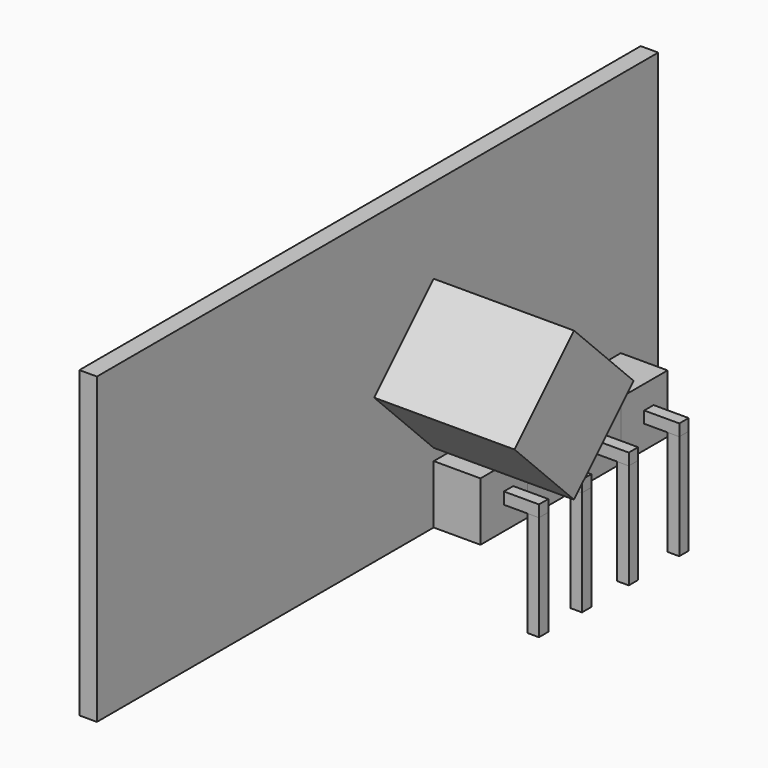
from build123d import *

# Parameters (mm, degrees)
BOX_W             = 0.75
BOX_H             = 30
BOX_DEPTH         = 13
BOX001_W          = 2
BOX001_H          = 2.5
BOX001_DEPTH      = 2.5
BOX002_W          = 2
BOX002_H          = 2.5
BOX002_DEPTH      = 2.5
BOX003_W          = 2
BOX003_H          = 2.5
BOX003_DEPTH      = 2.5
BOX004_W          = 1.5
BOX004_H          = 0.5
BOX004_DEPTH      = 0.5
BOX005_W          = 0.5
BOX005_H          = 0.5
BOX005_DEPTH      = 4.5
BOX006_W          = 1.5
BOX006_H          = 0.5
BOX006_DEPTH      = 0.5
BOX007_W          = 0.5
BOX007_H          = 0.5
BOX007_DEPTH      = 4.5
BOX008_W          = 1.5
BOX008_H          = 0.5
BOX008_DEPTH      = 0.5
BOX009_W          = 0.5
BOX009_H          = 0.5
BOX009_DEPTH      = 4.5
BOX010_W          = 2
BOX010_H          = 2.5
BOX010_DEPTH      = 2.5
BOX011_W          = 1.5
BOX011_H          = 0.5
BOX011_DEPTH      = 0.5
BOX012_W          = 0.5
BOX012_H          = 0.5
BOX012_DEPTH      = 4.5
BOX013_W          = 6
BOX013_H          = 4.5
BOX013_DEPTH      = 4.5
BOX013_ROLL_ANGLE = 45


with BuildPart() as cube:
    # Box → Box (new body)
    with BuildSketch(Plane(origin=(0.25, -12, 0), x_dir=(1, 0, 0), z_dir=(0, 0, 1))):
        with Locations((0.375, 15)):
            Rectangle(BOX_W, BOX_H)
    extrude(amount=BOX_DEPTH)


with BuildPart() as cube001:
    # Box001 → Box001 (new body)
    with BuildSketch(Plane(origin=(1, 6, 0), x_dir=(1, 0, 0), z_dir=(0, 0, 1))):
        with Locations((1, 1.25)):
            Rectangle(BOX001_W, BOX001_H)
    extrude(amount=BOX001_DEPTH)


with BuildPart() as cube002:
    # Box002 → Box002 (new body)
    with BuildSketch(Plane(origin=(1, 8.5, 0), x_dir=(1, 0, 0), z_dir=(0, 0, 1))):
        with Locations((1, 1.25)):
            Rectangle(BOX002_W, BOX002_H)
    extrude(amount=BOX002_DEPTH)


with BuildPart() as cube003:
    # Box003 → Box003 (new body)
    with BuildSketch(Plane(origin=(1, 11, 0), x_dir=(1, 0, 0), z_dir=(0, 0, 1))):
        with Locations((1, 1.25)):
            Rectangle(BOX003_W, BOX003_H)
    extrude(amount=BOX003_DEPTH)


with BuildPart() as cube004:
    # Box004 → Box004 (new body)
    with BuildSketch(Plane(origin=(3, 7.25, 1), x_dir=(1, 0, 0), z_dir=(0, 0, 1))):
        with Locations((0.75, 0.25)):
            Rectangle(BOX004_W, BOX004_H)
    extrude(amount=BOX004_DEPTH)


with BuildPart() as cube005:
    # Box005 → Box005 (new body)
    with BuildSketch(Plane(origin=(4, 7.25, -3.5), x_dir=(1, 0, 0), z_dir=(0, 0, 1))):
        with Locations((0.25, 0.25)):
            Rectangle(BOX005_W, BOX005_H)
    extrude(amount=BOX005_DEPTH)


with BuildPart() as cube006:
    # Box006 → Box006 (new body)
    with BuildSketch(Plane(origin=(3, 9.55, 1), x_dir=(1, 0, 0), z_dir=(0, 0, 1))):
        with Locations((0.75, 0.25)):
            Rectangle(BOX006_W, BOX006_H)
    extrude(amount=BOX006_DEPTH)


with BuildPart() as cube007:
    # Box007 → Box007 (new body)
    with BuildSketch(Plane(origin=(4, 9.55, -3.5), x_dir=(1, 0, 0), z_dir=(0, 0, 1))):
        with Locations((0.25, 0.25)):
            Rectangle(BOX007_W, BOX007_H)
    extrude(amount=BOX007_DEPTH)


with BuildPart() as cube008:
    # Box008 → Box008 (new body)
    with BuildSketch(Plane(origin=(3, 12.05, 1), x_dir=(1, 0, 0), z_dir=(0, 0, 1))):
        with Locations((0.75, 0.25)):
            Rectangle(BOX008_W, BOX008_H)
    extrude(amount=BOX008_DEPTH)


with BuildPart() as cube009:
    # Box009 → Box009 (new body)
    with BuildSketch(Plane(origin=(4, 12.05, -3.5), x_dir=(1, 0, 0), z_dir=(0, 0, 1))):
        with Locations((0.25, 0.25)):
            Rectangle(BOX009_W, BOX009_H)
    extrude(amount=BOX009_DEPTH)


with BuildPart() as cube010:
    # Box010 → Box010 (new body)
    with BuildSketch(Plane(origin=(1, 13.5, 0), x_dir=(1, 0, 0), z_dir=(0, 0, 1))):
        with Locations((1, 1.25)):
            Rectangle(BOX010_W, BOX010_H)
    extrude(amount=BOX010_DEPTH)


with BuildPart() as cube011:
    # Box011 → Box011 (new body)
    with BuildSketch(Plane(origin=(3, 14.75, 1), x_dir=(1, 0, 0), z_dir=(0, 0, 1))):
        with Locations((0.75, 0.25)):
            Rectangle(BOX011_W, BOX011_H)
    extrude(amount=BOX011_DEPTH)


with BuildPart() as cube012:
    # Box012 → Box012 (new body)
    with BuildSketch(Plane(origin=(4, 14.75, -3.5), x_dir=(1, 0, 0), z_dir=(0, 0, 1))):
        with Locations((0.25, 0.25)):
            Rectangle(BOX012_W, BOX012_H)
    extrude(amount=BOX012_DEPTH)


with BuildPart() as cube013:
    # Box013 → Box013 (new body)
    with BuildSketch(Plane.XY):
        with Locations((3, 2.25)):
            Rectangle(BOX013_W, BOX013_H)
    extrude(amount=BOX013_DEPTH)


with BuildPart() as cube013_1:
    # Box013 roll: moved
    add(cube013.part.rotate(Axis((0, 0, 0), (1, 0, 0)), BOX013_ROLL_ANGLE))


with BuildPart() as cube013_2:
    # Box013 placement: moved
    add(cube013_1.part.moved(Location((1, 6, 3))))


solid = Compound([cube.part, cube001.part, cube002.part, cube003.part, cube004.part, cube005.part, cube006.part, cube007.part, cube008.part, cube009.part, cube010.part, cube011.part, cube012.part, cube013_2.part])
